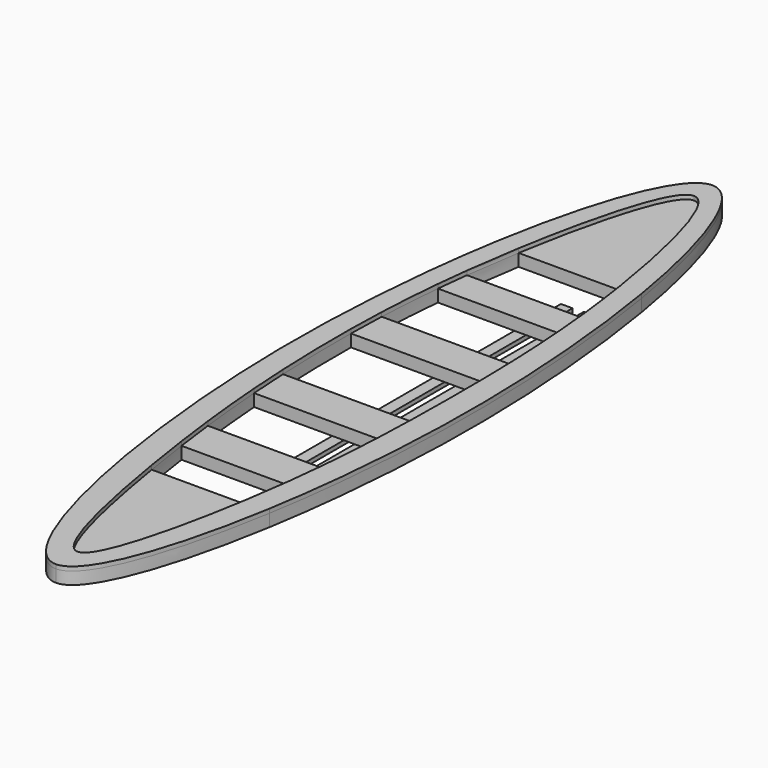
from build123d import *

# Parameters (mm, degrees)
F1_DEPTH = 0.2286
F2_DEPTH = 0.3048
F3_W     = 0.2153053356
F3_H     = 6.8897702731
F3_W_2   = 0.2153053065
F3_H_2   = 6.9063322153
F4_DEPTH = 0.0762


with BuildPart() as f1:
    # F0 (on Top) → F1 (new body)
    with BuildSketch(Plane.XY):
        with BuildLine():
            Line((0, 7.2434726171), (0, 7.6711121947))
            add(Edge.make_bspline(
                [(-1.3423947604, 4.3636551127), (-1.0156339127, 6.2922317394), (-0.5060900889, 7.6715240939), (0, 7.6711121947)],
                knots=[0.8499080642, 0.8499080642, 0.8499080642, 0.8499080642, 1, 1, 1, 1], degree=3))
            Line((-1.3423947604, 4.3636551127), (-0.958934892, 4.3636551127))
            add(Edge.make_bspline(
                [(0, 7.2434726171), (-0.3639252847, 7.2449137584), (-0.7318003372, 5.7173113742), (-0.958934892, 4.3636551127)],
                knots=[0, 0, 0, 0, 0.1142956277, 0.1142956277, 0.1142956277, 0.1142956277], degree=3))
        make_face()
        with BuildLine():
            Line((0, 4.3636551127), (0, 7.2434726171))
            add(Edge.make_bspline(
                [(0, 7.2434726171), (-0.3639252847, 7.2449137584), (-0.7318003372, 5.7173113742), (-0.958934892, 4.3636551127)],
                knots=[0, 0, 0, 0, 0.1142956277, 0.1142956277, 0.1142956277, 0.1142956277], degree=3))
            Line((-0.958934892, 4.3636551127), (0, 4.3636551127))
        make_face()
        with BuildLine():
            add(Edge.make_bspline(
                [(0.9318414377, 4.3636551127), (0.7228978921, 5.7158078155), (0.3634183317, 7.2420334833), (0, 7.2434726171)],
                knots=[0.8858635877, 0.8858635877, 0.8858635877, 0.8858635877, 1, 1, 1, 1], degree=3))
            Line((0, 7.2434726171), (0, 4.3636551127))
            Line((0, 4.3636551127), (0.9318414377, 4.3636551127))
        make_face()
        with BuildLine():
            add(Edge.make_bspline(
                [(0, 7.6711121947), (0.5058934925, 7.6707004554), (1.0083359327, 6.2916561777), (1.3294841904, 4.3636551127)],
                knots=[0, 0, 0, 0, 0.1500336308, 0.1500336308, 0.1500336308, 0.1500336308], degree=3))
            Line((0, 7.6711121947), (0, 7.2434726171))
            add(Edge.make_bspline(
                [(0.9318414377, 4.3636551127), (0.7228978921, 5.7158078155), (0.3634183317, 7.2420334833), (0, 7.2434726171)],
                knots=[0.8858635877, 0.8858635877, 0.8858635877, 0.8858635877, 1, 1, 1, 1], degree=3))
            Line((0.9318414377, 4.3636551127), (1.3294841904, 4.3636551127))
        make_face()
        with BuildLine():
            add(Edge.make_bspline(
                [(1.3294841904, 4.3636551127), (1.5445894491, 3.0722790646), (1.8102328011, 0.0187859819), (1.5443972824, -3.022746832), (1.3328770616, -4.293392878)],
                knots=[0.1500336308, 0.1500336308, 0.1500336308, 0.1500336308, 0.2505262295, 0.3495928647, 0.3495928647, 0.3495928647, 0.3495928647], degree=3))
            Line((1.3294841904, 4.3636551127), (0.9318414377, 4.3636551127))
            add(Edge.make_bspline(
                [(1.0654413322, 3.3475123614), (1.0298088056, 3.6762032783), (0.9858550094, 4.0141128633), (0.9318414377, 4.3636551127)],
                knots=[0.8563584155, 0.8563584155, 0.8563584155, 0.8563584155, 0.8858635877, 0.8858635877, 0.8858635877, 0.8858635877], degree=3))
            add(Edge.make_bspline(
                [(1.1218204319, 2.7549465037), (1.1058681363, 2.9493955135), (1.0872071846, 3.1467340647), (1.0654413322, 3.3475123614)],
                knots=[0.83833541, 0.83833541, 0.83833541, 0.83833541, 0.8563584155, 0.8563584155, 0.8563584155, 0.8563584155], degree=3))
            add(Edge.make_bspline(
                [(1.1905037382, 1.5527783939), (1.1772545297, 1.9440199629), (1.1556159829, 2.3429988063), (1.1218204319, 2.7549465037)],
                knots=[0.8001529804, 0.8001529804, 0.8001529804, 0.8001529804, 0.83833541, 0.83833541, 0.83833541, 0.83833541], degree=3))
            add(Edge.make_bspline(
                [(1.2060293387, 0.8621757044), (1.2032909664, 1.0903751783), (1.198379563, 1.3202097807), (1.1905037382, 1.5527783939)],
                knots=[0.777455917, 0.777455917, 0.777455917, 0.777455917, 0.8001529804, 0.8001529804, 0.8001529804, 0.8001529804], degree=3))
            add(Edge.make_bspline(
                [(1.197194119, -0.7546273127), (1.2027943717, -0.5022913688), (1.2094619458, 0.0346194676), (1.2095005907, 0.5729024481), (1.2060293387, 0.8621757044)],
                knots=[0.7234267321, 0.7234267321, 0.7234267321, 0.7234267321, 0.7486843632, 0.777455917, 0.777455917, 0.777455917, 0.777455917], degree=3))
            add(Edge.make_bspline(
                [(1.1734669889, -1.4823656689), (1.1842390233, -1.2376137778), (1.1918480579, -0.9955098987), (1.197194119, -0.7546273127)],
                knots=[0.6993155278, 0.6993155278, 0.6993155278, 0.6993155278, 0.7234267321, 0.7234267321, 0.7234267321, 0.7234267321], degree=3))
            add(Edge.make_bspline(
                [(1.0919183169, -2.7039041214), (1.1300530266, -2.2856241773), (1.1559446469, -1.8804916112), (1.1734669889, -1.4823656689)],
                knots=[0.6600950098, 0.6600950098, 0.6600950098, 0.6600950098, 0.6993155278, 0.6993155278, 0.6993155278, 0.6993155278], degree=3))
            add(Edge.make_bspline(
                [(1.0137342957, -3.435748174), (1.0442849732, -3.1867320712), (1.0701046324, -2.9431671661), (1.0919183169, -2.7039041214)],
                knots=[0.637660225, 0.637660225, 0.637660225, 0.637660225, 0.6600950098, 0.6600950098, 0.6600950098, 0.6600950098], degree=3))
            add(Edge.make_bspline(
                [(0.8924502181, -4.293392878), (0.9394733735, -3.9996193859), (0.9795632125, -3.7142739106), (1.0137342957, -3.435748174)],
                knots=[0.6125668078, 0.6125668078, 0.6125668078, 0.6125668078, 0.637660225, 0.637660225, 0.637660225, 0.637660225], degree=3))
            Line((0.8924502181, -4.293392878), (1.3328770616, -4.293392878))
        make_face()
        with BuildLine():
            add(Edge.make_bspline(
                [(1.1218204319, 2.7549465037), (1.1058681363, 2.9493955135), (1.0872071846, 3.1467340647), (1.0654413322, 3.3475123614)],
                knots=[0.83833541, 0.83833541, 0.83833541, 0.83833541, 0.8563584155, 0.8563584155, 0.8563584155, 0.8563584155], degree=3))
            Line((1.0654413322, 3.3475123614), (-1.107775715, 3.3475123614))
            add(Edge.make_bspline(
                [(-1.107775715, 3.3475123614), (-1.1327763325, 3.1467374686), (-1.1546685366, 2.9493970828), (-1.1736917653, 2.7549465037)],
                knots=[0.1438067504, 0.1438067504, 0.1438067504, 0.1438067504, 0.161831964, 0.161831964, 0.161831964, 0.161831964], degree=3))
            Line((-1.1736917653, 2.7549465037), (1.1218204319, 2.7549465037))
        make_face()
        with BuildLine():
            Line((-0.958934892, 4.3636551127), (-1.3423947604, 4.3636551127))
            add(Edge.make_bspline(
                [(-1.3458643305, -4.293392878), (-1.5610247422, -3.0227470319), (-1.8329438754, 0.0187848434), (-1.5611940514, 3.072278862), (-1.3423947604, 4.3636551127)],
                knots=[0.6503307836, 0.6503307836, 0.6503307836, 0.6503307836, 0.7494063997, 0.8499080642, 0.8499080642, 0.8499080642, 0.8499080642], degree=3))
            Line((-1.3458643305, -4.293392878), (-0.8604569593, -4.293392878))
            add(Edge.make_bspline(
                [(-0.9920101065, -3.435748174), (-0.9527362464, -3.7142048811), (-0.908977853, -3.9995422087), (-0.8604569593, -4.293392878)],
                knots=[0.362662729, 0.362662729, 0.362662729, 0.362662729, 0.387765724, 0.387765724, 0.387765724, 0.387765724], degree=3))
            add(Edge.make_bspline(
                [(-1.0868303035, -2.7039041214), (-1.0586787085, -2.943126357), (-1.0271382783, -3.186684929), (-0.9920101065, -3.435748174)],
                knots=[0.3402095674, 0.3402095674, 0.3402095674, 0.3402095674, 0.362662729, 0.362662729, 0.362662729, 0.362662729], degree=3))
            add(Edge.make_bspline(
                [(-1.2044978807, -1.4823656689), (-1.1749305257, -1.8804488847), (-1.1360626253, -2.2855453721), (-1.0868303035, -2.7039041214)],
                knots=[0.3009428306, 0.3009428306, 0.3009428306, 0.3009428306, 0.3402095674, 0.3402095674, 0.3402095674, 0.3402095674], degree=3))
            add(Edge.make_bspline(
                [(-1.2487335702, -0.7546273127), (-1.2373390627, -0.9955239481), (-1.2226762461, -1.2376193218), (-1.2044978807, -1.4823656689)],
                knots=[0.2768011687, 0.2768011687, 0.2768011687, 0.2768011687, 0.3009428306, 0.3009428306, 0.3009428306, 0.3009428306], degree=3))
            add(Edge.make_bspline(
                [(-1.2774917054, 0.8621757044), (-1.2812797226, 0.5728457339), (-1.2785229901, 0.0344514229), (-1.2606675196, -0.5023260848), (-1.2487335702, -0.7546273127)],
                knots=[0.2227257259, 0.2227257259, 0.2227257259, 0.2227257259, 0.2515165859, 0.2768011687, 0.2768011687, 0.2768011687, 0.2768011687], degree=3))
            add(Edge.make_bspline(
                [(-1.2582450933, 1.5527783939), (-1.2682483632, 1.3201862401), (-1.2745043846, 1.0903482283), (-1.2774917054, 0.8621757044)],
                knots=[0.2000205662, 0.2000205662, 0.2000205662, 0.2000205662, 0.2227257259, 0.2227257259, 0.2227257259, 0.2227257259], degree=3))
            add(Edge.make_bspline(
                [(-1.1736917653, 2.7549465037), (-1.2139947835, 2.3429793577), (-1.2414202439, 1.9439832724), (-1.2582450933, 1.5527783939)],
                knots=[0.161831964, 0.161831964, 0.161831964, 0.161831964, 0.2000205662, 0.2000205662, 0.2000205662, 0.2000205662], degree=3))
            add(Edge.make_bspline(
                [(-1.107775715, 3.3475123614), (-1.1327763325, 3.1467374686), (-1.1546685366, 2.9493970828), (-1.1736917653, 2.7549465037)],
                knots=[0.1438067504, 0.1438067504, 0.1438067504, 0.1438067504, 0.161831964, 0.161831964, 0.161831964, 0.161831964], degree=3))
            add(Edge.make_bspline(
                [(-0.958934892, 4.3636551127), (-1.0175810172, 4.0141411662), (-1.0668443673, 3.6762237209), (-1.107775715, 3.3475123614)],
                knots=[0.1142956277, 0.1142956277, 0.1142956277, 0.1142956277, 0.1438067504, 0.1438067504, 0.1438067504, 0.1438067504], degree=3))
        make_face()
        with BuildLine():
            add(Edge.make_bspline(
                [(1.2060293387, 0.8621757044), (1.2032909664, 1.0903751783), (1.198379563, 1.3202097807), (1.1905037382, 1.5527783939)],
                knots=[0.777455917, 0.777455917, 0.777455917, 0.777455917, 0.8001529804, 0.8001529804, 0.8001529804, 0.8001529804], degree=3))
            Line((1.1905037382, 1.5527783939), (-1.2582450933, 1.5527783939))
            add(Edge.make_bspline(
                [(-1.2582450933, 1.5527783939), (-1.2682483632, 1.3201862401), (-1.2745043846, 1.0903482283), (-1.2774917054, 0.8621757044)],
                knots=[0.2000205662, 0.2000205662, 0.2000205662, 0.2000205662, 0.2227257259, 0.2227257259, 0.2227257259, 0.2227257259], degree=3))
            Line((-1.2774917054, 0.8621757044), (1.2060293387, 0.8621757044))
        make_face()
        with BuildLine():
            Line((-1.2044978807, -1.4823656689), (1.1734669889, -1.4823656689))
            add(Edge.make_bspline(
                [(1.1734669889, -1.4823656689), (1.1842390233, -1.2376137778), (1.1918480579, -0.9955098987), (1.197194119, -0.7546273127)],
                knots=[0.6993155278, 0.6993155278, 0.6993155278, 0.6993155278, 0.7234267321, 0.7234267321, 0.7234267321, 0.7234267321], degree=3))
            Line((1.197194119, -0.7546273127), (-1.2487335702, -0.7546273127))
            add(Edge.make_bspline(
                [(-1.2487335702, -0.7546273127), (-1.2373390627, -0.9955239481), (-1.2226762461, -1.2376193218), (-1.2044978807, -1.4823656689)],
                knots=[0.2768011687, 0.2768011687, 0.2768011687, 0.2768011687, 0.3009428306, 0.3009428306, 0.3009428306, 0.3009428306], degree=3))
        make_face()
        with BuildLine():
            Line((-0.9920101065, -3.435748174), (1.0137342957, -3.435748174))
            add(Edge.make_bspline(
                [(1.0137342957, -3.435748174), (1.0442849732, -3.1867320712), (1.0701046324, -2.9431671661), (1.0919183169, -2.7039041214)],
                knots=[0.637660225, 0.637660225, 0.637660225, 0.637660225, 0.6600950098, 0.6600950098, 0.6600950098, 0.6600950098], degree=3))
            Line((1.0919183169, -2.7039041214), (-1.0868303035, -2.7039041214))
            add(Edge.make_bspline(
                [(-1.0868303035, -2.7039041214), (-1.0586787085, -2.943126357), (-1.0271382783, -3.186684929), (-0.9920101065, -3.435748174)],
                knots=[0.3402095674, 0.3402095674, 0.3402095674, 0.3402095674, 0.362662729, 0.362662729, 0.362662729, 0.362662729], degree=3))
        make_face()
        with BuildLine():
            Line((0, -4.293392878), (-0.8604569593, -4.293392878))
            add(Edge.make_bspline(
                [(-0.8604569593, -4.293392878), (-0.6433777668, -5.6080608751), (-0.330972036, -7.0931325163), (0, -7.0949140936)],
                knots=[0.387765724, 0.387765724, 0.387765724, 0.387765724, 0.5000748243, 0.5000748243, 0.5000748243, 0.5000748243], degree=3))
            Line((0, -7.0949140936), (0, -4.293392878))
        make_face()
        with BuildLine():
            add(Edge.make_bspline(
                [(0, -7.0949140936), (0.331510988, -7.096698572), (0.6816487969, -5.6103582995), (0.8924502181, -4.293392878)],
                knots=[0.5000748243, 0.5000748243, 0.5000748243, 0.5000748243, 0.6125668078, 0.6125668078, 0.6125668078, 0.6125668078], degree=3))
            Line((0.8924502181, -4.293392878), (0, -4.293392878))
            Line((0, -4.293392878), (0, -7.0949140936))
        make_face()
        with BuildLine():
            add(Edge.make_bspline(
                [(1.3328770616, -4.293392878), (1.0118829781, -6.2216712315), (0.5076816458, -7.5989531343), (0, -7.5993710198)],
                knots=[0.3495928647, 0.3495928647, 0.3495928647, 0.3495928647, 0.4999321735, 0.4999321735, 0.4999321735, 0.4999321735], degree=3))
            Line((1.3328770616, -4.293392878), (0.8924502181, -4.293392878))
            add(Edge.make_bspline(
                [(0, -7.0949140936), (0.331510988, -7.096698572), (0.6816487969, -5.6103582995), (0.8924502181, -4.293392878)],
                knots=[0.5000748243, 0.5000748243, 0.5000748243, 0.5000748243, 0.6125668078, 0.6125668078, 0.6125668078, 0.6125668078], degree=3))
            Line((0, -7.0949140936), (0, -7.5993710198))
        make_face()
        with BuildLine():
            Line((-0.8604569593, -4.293392878), (-1.3458643305, -4.293392878))
            add(Edge.make_bspline(
                [(0, -7.5993710198), (-0.5078819012, -7.59978907), (-1.019246862, -6.2222566788), (-1.3458643305, -4.293392878)],
                knots=[0.4999321735, 0.4999321735, 0.4999321735, 0.4999321735, 0.6503307836, 0.6503307836, 0.6503307836, 0.6503307836], degree=3))
            Line((0, -7.5993710198), (0, -7.0949140936))
            add(Edge.make_bspline(
                [(-0.8604569593, -4.293392878), (-0.6433777668, -5.6080608751), (-0.330972036, -7.0931325163), (0, -7.0949140936)],
                knots=[0.387765724, 0.387765724, 0.387765724, 0.387765724, 0.5000748243, 0.5000748243, 0.5000748243, 0.5000748243], degree=3))
        make_face()
    extrude(amount=F1_DEPTH)

    # F0 (on Top) → F2 (join)
    with BuildSketch(Plane.XY):
        with BuildLine():
            Line((-0.958934892, 4.3636551127), (-1.3423947604, 4.3636551127))
            add(Edge.make_bspline(
                [(-1.3458643305, -4.293392878), (-1.5610247422, -3.0227470319), (-1.8329438754, 0.0187848434), (-1.5611940514, 3.072278862), (-1.3423947604, 4.3636551127)],
                knots=[0.6503307836, 0.6503307836, 0.6503307836, 0.6503307836, 0.7494063997, 0.8499080642, 0.8499080642, 0.8499080642, 0.8499080642], degree=3))
            Line((-1.3458643305, -4.293392878), (-0.8604569593, -4.293392878))
            add(Edge.make_bspline(
                [(-0.9920101065, -3.435748174), (-0.9527362464, -3.7142048811), (-0.908977853, -3.9995422087), (-0.8604569593, -4.293392878)],
                knots=[0.362662729, 0.362662729, 0.362662729, 0.362662729, 0.387765724, 0.387765724, 0.387765724, 0.387765724], degree=3))
            add(Edge.make_bspline(
                [(-1.0868303035, -2.7039041214), (-1.0586787085, -2.943126357), (-1.0271382783, -3.186684929), (-0.9920101065, -3.435748174)],
                knots=[0.3402095674, 0.3402095674, 0.3402095674, 0.3402095674, 0.362662729, 0.362662729, 0.362662729, 0.362662729], degree=3))
            add(Edge.make_bspline(
                [(-1.2044978807, -1.4823656689), (-1.1749305257, -1.8804488847), (-1.1360626253, -2.2855453721), (-1.0868303035, -2.7039041214)],
                knots=[0.3009428306, 0.3009428306, 0.3009428306, 0.3009428306, 0.3402095674, 0.3402095674, 0.3402095674, 0.3402095674], degree=3))
            add(Edge.make_bspline(
                [(-1.2487335702, -0.7546273127), (-1.2373390627, -0.9955239481), (-1.2226762461, -1.2376193218), (-1.2044978807, -1.4823656689)],
                knots=[0.2768011687, 0.2768011687, 0.2768011687, 0.2768011687, 0.3009428306, 0.3009428306, 0.3009428306, 0.3009428306], degree=3))
            add(Edge.make_bspline(
                [(-1.2774917054, 0.8621757044), (-1.2812797226, 0.5728457339), (-1.2785229901, 0.0344514229), (-1.2606675196, -0.5023260848), (-1.2487335702, -0.7546273127)],
                knots=[0.2227257259, 0.2227257259, 0.2227257259, 0.2227257259, 0.2515165859, 0.2768011687, 0.2768011687, 0.2768011687, 0.2768011687], degree=3))
            add(Edge.make_bspline(
                [(-1.2582450933, 1.5527783939), (-1.2682483632, 1.3201862401), (-1.2745043846, 1.0903482283), (-1.2774917054, 0.8621757044)],
                knots=[0.2000205662, 0.2000205662, 0.2000205662, 0.2000205662, 0.2227257259, 0.2227257259, 0.2227257259, 0.2227257259], degree=3))
            add(Edge.make_bspline(
                [(-1.1736917653, 2.7549465037), (-1.2139947835, 2.3429793577), (-1.2414202439, 1.9439832724), (-1.2582450933, 1.5527783939)],
                knots=[0.161831964, 0.161831964, 0.161831964, 0.161831964, 0.2000205662, 0.2000205662, 0.2000205662, 0.2000205662], degree=3))
            add(Edge.make_bspline(
                [(-1.107775715, 3.3475123614), (-1.1327763325, 3.1467374686), (-1.1546685366, 2.9493970828), (-1.1736917653, 2.7549465037)],
                knots=[0.1438067504, 0.1438067504, 0.1438067504, 0.1438067504, 0.161831964, 0.161831964, 0.161831964, 0.161831964], degree=3))
            add(Edge.make_bspline(
                [(-0.958934892, 4.3636551127), (-1.0175810172, 4.0141411662), (-1.0668443673, 3.6762237209), (-1.107775715, 3.3475123614)],
                knots=[0.1142956277, 0.1142956277, 0.1142956277, 0.1142956277, 0.1438067504, 0.1438067504, 0.1438067504, 0.1438067504], degree=3))
        make_face()
        with BuildLine():
            add(Edge.make_bspline(
                [(1.3294841904, 4.3636551127), (1.5445894491, 3.0722790646), (1.8102328011, 0.0187859819), (1.5443972824, -3.022746832), (1.3328770616, -4.293392878)],
                knots=[0.1500336308, 0.1500336308, 0.1500336308, 0.1500336308, 0.2505262295, 0.3495928647, 0.3495928647, 0.3495928647, 0.3495928647], degree=3))
            Line((1.3294841904, 4.3636551127), (0.9318414377, 4.3636551127))
            add(Edge.make_bspline(
                [(1.0654413322, 3.3475123614), (1.0298088056, 3.6762032783), (0.9858550094, 4.0141128633), (0.9318414377, 4.3636551127)],
                knots=[0.8563584155, 0.8563584155, 0.8563584155, 0.8563584155, 0.8858635877, 0.8858635877, 0.8858635877, 0.8858635877], degree=3))
            add(Edge.make_bspline(
                [(1.1218204319, 2.7549465037), (1.1058681363, 2.9493955135), (1.0872071846, 3.1467340647), (1.0654413322, 3.3475123614)],
                knots=[0.83833541, 0.83833541, 0.83833541, 0.83833541, 0.8563584155, 0.8563584155, 0.8563584155, 0.8563584155], degree=3))
            add(Edge.make_bspline(
                [(1.1905037382, 1.5527783939), (1.1772545297, 1.9440199629), (1.1556159829, 2.3429988063), (1.1218204319, 2.7549465037)],
                knots=[0.8001529804, 0.8001529804, 0.8001529804, 0.8001529804, 0.83833541, 0.83833541, 0.83833541, 0.83833541], degree=3))
            add(Edge.make_bspline(
                [(1.2060293387, 0.8621757044), (1.2032909664, 1.0903751783), (1.198379563, 1.3202097807), (1.1905037382, 1.5527783939)],
                knots=[0.777455917, 0.777455917, 0.777455917, 0.777455917, 0.8001529804, 0.8001529804, 0.8001529804, 0.8001529804], degree=3))
            add(Edge.make_bspline(
                [(1.197194119, -0.7546273127), (1.2027943717, -0.5022913688), (1.2094619458, 0.0346194676), (1.2095005907, 0.5729024481), (1.2060293387, 0.8621757044)],
                knots=[0.7234267321, 0.7234267321, 0.7234267321, 0.7234267321, 0.7486843632, 0.777455917, 0.777455917, 0.777455917, 0.777455917], degree=3))
            add(Edge.make_bspline(
                [(1.1734669889, -1.4823656689), (1.1842390233, -1.2376137778), (1.1918480579, -0.9955098987), (1.197194119, -0.7546273127)],
                knots=[0.6993155278, 0.6993155278, 0.6993155278, 0.6993155278, 0.7234267321, 0.7234267321, 0.7234267321, 0.7234267321], degree=3))
            add(Edge.make_bspline(
                [(1.0919183169, -2.7039041214), (1.1300530266, -2.2856241773), (1.1559446469, -1.8804916112), (1.1734669889, -1.4823656689)],
                knots=[0.6600950098, 0.6600950098, 0.6600950098, 0.6600950098, 0.6993155278, 0.6993155278, 0.6993155278, 0.6993155278], degree=3))
            add(Edge.make_bspline(
                [(1.0137342957, -3.435748174), (1.0442849732, -3.1867320712), (1.0701046324, -2.9431671661), (1.0919183169, -2.7039041214)],
                knots=[0.637660225, 0.637660225, 0.637660225, 0.637660225, 0.6600950098, 0.6600950098, 0.6600950098, 0.6600950098], degree=3))
            add(Edge.make_bspline(
                [(0.8924502181, -4.293392878), (0.9394733735, -3.9996193859), (0.9795632125, -3.7142739106), (1.0137342957, -3.435748174)],
                knots=[0.6125668078, 0.6125668078, 0.6125668078, 0.6125668078, 0.637660225, 0.637660225, 0.637660225, 0.637660225], degree=3))
            Line((0.8924502181, -4.293392878), (1.3328770616, -4.293392878))
        make_face()
        with BuildLine():
            add(Edge.make_bspline(
                [(0, 7.6711121947), (0.5058934925, 7.6707004554), (1.0083359327, 6.2916561777), (1.3294841904, 4.3636551127)],
                knots=[0, 0, 0, 0, 0.1500336308, 0.1500336308, 0.1500336308, 0.1500336308], degree=3))
            Line((0, 7.6711121947), (0, 7.2434726171))
            add(Edge.make_bspline(
                [(0.9318414377, 4.3636551127), (0.7228978921, 5.7158078155), (0.3634183317, 7.2420334833), (0, 7.2434726171)],
                knots=[0.8858635877, 0.8858635877, 0.8858635877, 0.8858635877, 1, 1, 1, 1], degree=3))
            Line((0.9318414377, 4.3636551127), (1.3294841904, 4.3636551127))
        make_face()
        with BuildLine():
            Line((0, 7.2434726171), (0, 7.6711121947))
            add(Edge.make_bspline(
                [(-1.3423947604, 4.3636551127), (-1.0156339127, 6.2922317394), (-0.5060900889, 7.6715240939), (0, 7.6711121947)],
                knots=[0.8499080642, 0.8499080642, 0.8499080642, 0.8499080642, 1, 1, 1, 1], degree=3))
            Line((-1.3423947604, 4.3636551127), (-0.958934892, 4.3636551127))
            add(Edge.make_bspline(
                [(0, 7.2434726171), (-0.3639252847, 7.2449137584), (-0.7318003372, 5.7173113742), (-0.958934892, 4.3636551127)],
                knots=[0, 0, 0, 0, 0.1142956277, 0.1142956277, 0.1142956277, 0.1142956277], degree=3))
        make_face()
        with BuildLine():
            Line((-0.8604569593, -4.293392878), (-1.3458643305, -4.293392878))
            add(Edge.make_bspline(
                [(0, -7.5993710198), (-0.5078819012, -7.59978907), (-1.019246862, -6.2222566788), (-1.3458643305, -4.293392878)],
                knots=[0.4999321735, 0.4999321735, 0.4999321735, 0.4999321735, 0.6503307836, 0.6503307836, 0.6503307836, 0.6503307836], degree=3))
            Line((0, -7.5993710198), (0, -7.0949140936))
            add(Edge.make_bspline(
                [(-0.8604569593, -4.293392878), (-0.6433777668, -5.6080608751), (-0.330972036, -7.0931325163), (0, -7.0949140936)],
                knots=[0.387765724, 0.387765724, 0.387765724, 0.387765724, 0.5000748243, 0.5000748243, 0.5000748243, 0.5000748243], degree=3))
        make_face()
        with BuildLine():
            add(Edge.make_bspline(
                [(1.3328770616, -4.293392878), (1.0118829781, -6.2216712315), (0.5076816458, -7.5989531343), (0, -7.5993710198)],
                knots=[0.3495928647, 0.3495928647, 0.3495928647, 0.3495928647, 0.4999321735, 0.4999321735, 0.4999321735, 0.4999321735], degree=3))
            Line((1.3328770616, -4.293392878), (0.8924502181, -4.293392878))
            add(Edge.make_bspline(
                [(0, -7.0949140936), (0.331510988, -7.096698572), (0.6816487969, -5.6103582995), (0.8924502181, -4.293392878)],
                knots=[0.5000748243, 0.5000748243, 0.5000748243, 0.5000748243, 0.6125668078, 0.6125668078, 0.6125668078, 0.6125668078], degree=3))
            Line((0, -7.0949140936), (0, -7.5993710198))
        make_face()
    extrude(amount=F2_DEPTH)

    # F3 (on Top) → F4 (join)
    with BuildSketch(Plane.XY):
        with Locations((0.3581561177, 0.3920397721)):
            Rectangle(F3_W, F3_H)
        with Locations((0.7722048031, 0.4003207432)):
            Rectangle(F3_W_2, F3_H_2)
    extrude(amount=-F4_DEPTH)


solid = f1.part
